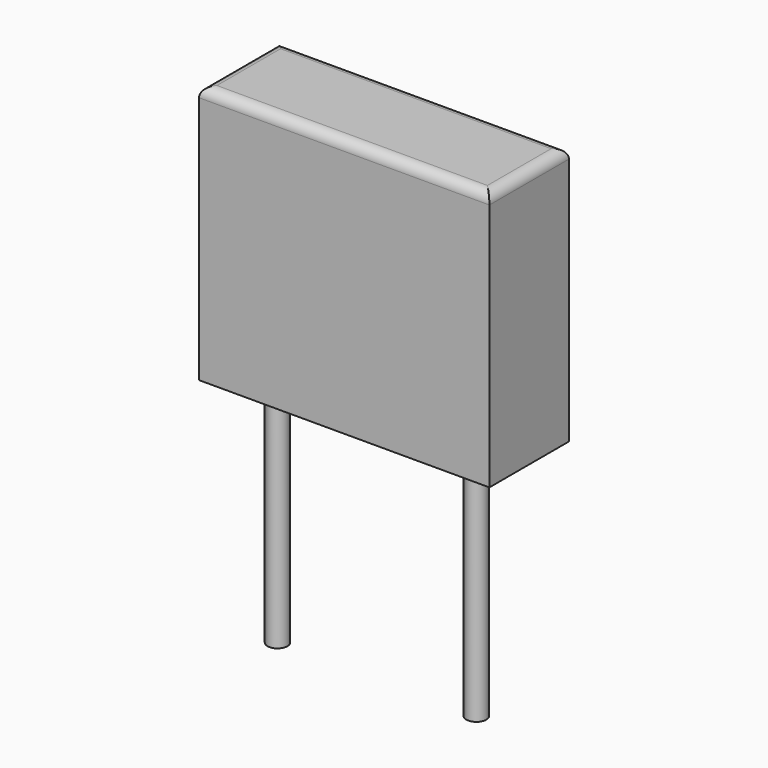
from build123d import *

# Parameters (mm, degrees)
SKETCH_W     = 7.3
SKETCH_H     = 2.5
PAD_DEPTH    = 6.5
FILLET_R     = 0.25
SKETCH001_R  = 0.25
PAD001_DEPTH = 6


with BuildPart() as part:
    # Sketch → Pad (new body)
    with BuildSketch(Plane.XY):
        with Locations((0.178171, 0)):
            Rectangle(SKETCH_W, SKETCH_H)
    extrude(amount=PAD_DEPTH)

    # Fillet
    fillet_edges = [part.edges().sort_by_distance(p)[0] for p in [
        (0.178171, -1.25, 6.5),
        (0.178171, 1.25, 6.5),
        (3.828171, 0, 6.5),
        (-3.471829, 0, 6.5),
    ]]
    fillet(fillet_edges, radius=FILLET_R)

    # Sketch001 (on Face4 of Fillet) → Pad001 (join)
    with BuildSketch(Plane(origin=(0, 0, 0), x_dir=(1, 0, 0), z_dir=(0, 0, -1))):
        with Locations((2.5, 0)):
            Circle(SKETCH001_R)
        with Locations((-2.5, 0)):
            Circle(SKETCH001_R)
    extrude(amount=PAD001_DEPTH)


solid = part.part
